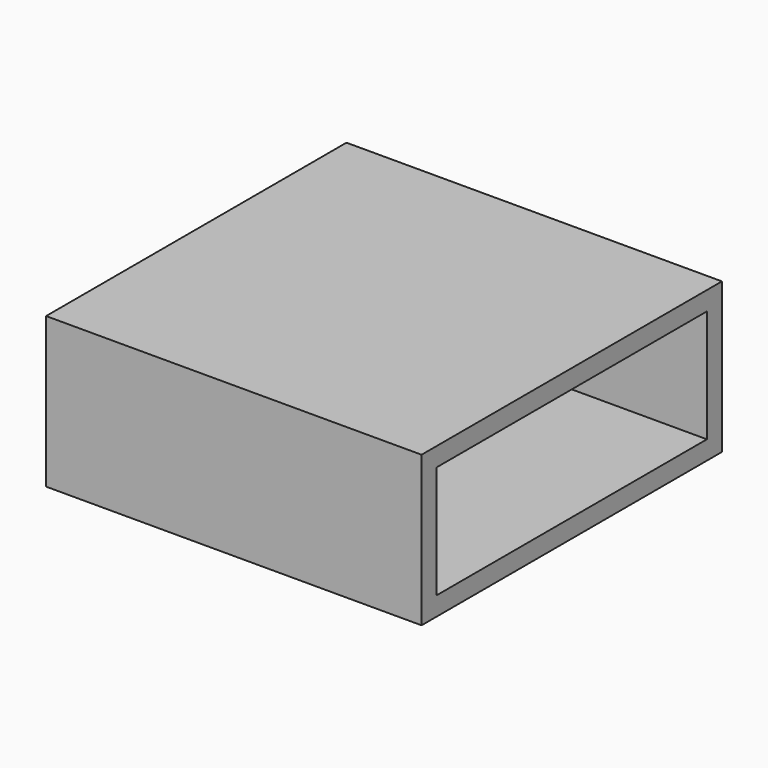
from build123d import *

# Parameters (mm, degrees)
F0_W     = 20
F0_H     = 20
F1_DEPTH = 8
F2_T     = -1
F4_DEPTH = 2


with BuildPart() as f1:
    # F0 (on Top) → F1 (new body)
    with BuildSketch(Plane.XY):
        with Locations((10, 10)):
            Rectangle(F0_W, F0_H)
    extrude(amount=F1_DEPTH)

    # F2
    f2_openings = [f1.faces().sort_by_distance(p)[0] for p in [
        (20, 10, 4),
    ]]
    offset(amount=F2_T, openings=f2_openings)

    # F3 (on face) → F4 (cut)
    with BuildSketch(Plane(origin=(0, 0, 0), x_dir=(0, -1, 0), z_dir=(-1, 0, 0))):
        Polygon((-19, 7), (-19, 4.001057), (-19, 1), (-1, 1), (-1, 7), align=None)
    extrude(amount=-F4_DEPTH, mode=Mode.SUBTRACT)


solid = f1.part
